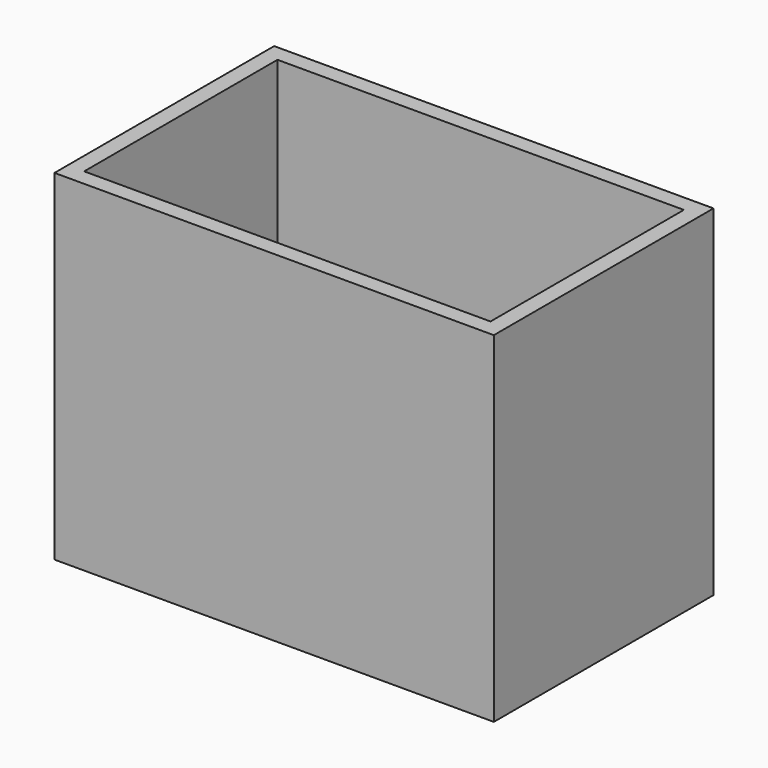
from build123d import *

# Parameters (mm, degrees)
F0_W     = 80
F0_H     = 50
F1_DEPTH = 2
F2_W     = 80
F2_H     = 50
F2_W_2   = 74
F2_H_2   = 44
F3_DEPTH = 60


with BuildPart() as f1:
    # F0 (on Top) → F1 (new body)
    with BuildSketch(Plane.XY):
        Rectangle(F0_W, F0_H)
        Rectangle(F0_W, F0_H)
    extrude(amount=F1_DEPTH)

    # F2 (on face) → F3 (join)
    with BuildSketch(Plane.XY.offset(2)):
        Rectangle(F2_W, F2_H)
        Rectangle(F2_W_2, F2_H_2, mode=Mode.SUBTRACT)
    extrude(amount=F3_DEPTH)


solid = f1.part
